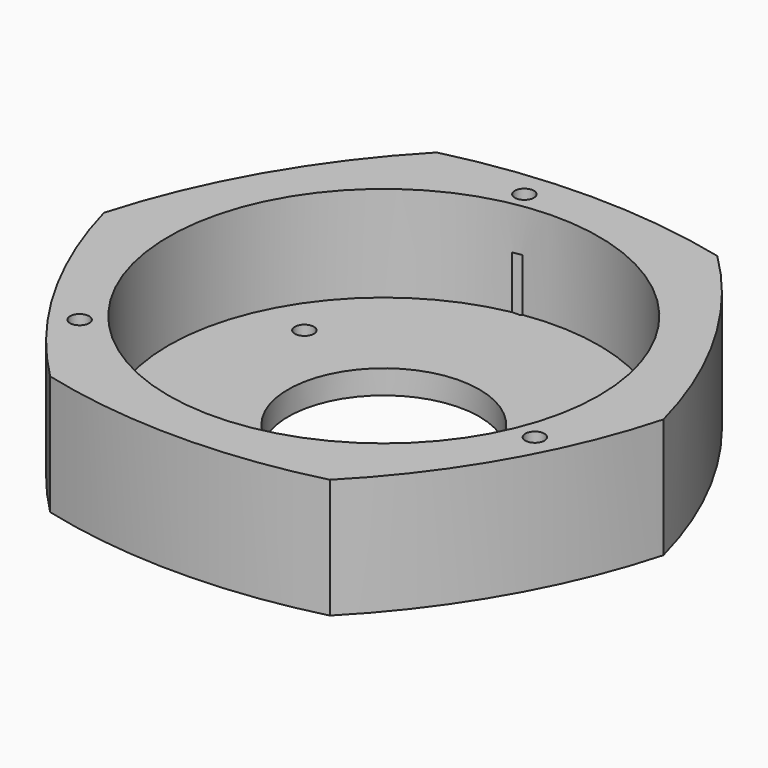
from build123d import *

# Parameters (mm, degrees)
CYLINDER006_R     = 2
CYLINDER006_DEPTH = 20
CYLINDER007_R     = 2
CYLINDER007_DEPTH = 20
CYLINDER005_R     = 2
CYLINDER005_DEPTH = 20
EXTRUDE003_DEPTH  = 16
EXTRUDE002_DEPTH  = 16
EXTRUDE001_DEPTH  = 16
CYLINDER004_R     = 2
CYLINDER004_DEPTH = 25
CYLINDER003_R     = 2
CYLINDER003_DEPTH = 25
CYLINDER002_R     = 2
CYLINDER002_DEPTH = 25
CYLINDER001_R     = 20
CYLINDER001_DEPTH = 5
CYLINDER_R        = 45
CYLINDER_DEPTH    = 20
EXTRUDE_DEPTH     = 25


with BuildPart() as cylinder006:
    # Cylinder006 → Cylinder006 (new body)
    with BuildSketch(Plane(origin=(-31, 18, 0), x_dir=(1, 0, 0), z_dir=(0, 0, 1))):
        Circle(CYLINDER006_R)
    extrude(amount=CYLINDER006_DEPTH)


with BuildPart() as cylinder007:
    # Cylinder007 → Cylinder007 (new body)
    with BuildSketch(Plane(origin=(0, -36, 0), x_dir=(1, 0, 0), z_dir=(0, 0, 1))):
        Circle(CYLINDER007_R)
    extrude(amount=CYLINDER007_DEPTH)


with BuildPart() as cylinder005:
    # Cylinder005 → Cylinder005 (new body)
    with BuildSketch(Plane(origin=(31, 18, 0), x_dir=(1, 0, 0), z_dir=(0, 0, 1))):
        Circle(CYLINDER005_R)
    extrude(amount=CYLINDER005_DEPTH)


with BuildPart() as extrude003:
    # RegularPolygon002 → Extrude003 (new body)
    with BuildSketch(Plane(origin=(46, -18, 0), x_dir=(0, 1, 0), z_dir=(0, 0, 1))):
        Polygon((0, -4.4), (3.810512, -2.2), (3.810512, 2.2), (0, 4.4), (-3.810512, 2.2), (-3.810512, -2.2), align=None)
    extrude(amount=EXTRUDE003_DEPTH)


with BuildPart() as extrude002:
    # RegularPolygon001 → Extrude002 (new body)
    with BuildSketch(Plane(origin=(-9, 48, 0), x_dir=(0, 1, 0), z_dir=(0, 0, 1))):
        Polygon((0, -4.4), (3.810512, -2.2), (3.810512, 2.2), (0, 4.4), (-3.810512, 2.2), (-3.810512, -2.2), align=None)
    extrude(amount=EXTRUDE002_DEPTH)


with BuildPart() as extrude001:
    # RegularPolygon → Extrude001 (new body)
    with BuildSketch(Plane(origin=(-38, -32, 0), x_dir=(0, 1, 0), z_dir=(0, 0, 1))):
        Polygon((0, -4.4), (3.810512, -2.2), (3.810512, 2.2), (0, 4.4), (-3.810512, 2.2), (-3.810512, -2.2), align=None)
    extrude(amount=EXTRUDE001_DEPTH)


with BuildPart() as cylinder004:
    # Cylinder004 → Cylinder004 (new body)
    with BuildSketch(Plane(origin=(46, -18, 0), x_dir=(1, 0, 0), z_dir=(0, 0, 1))):
        Circle(CYLINDER004_R)
    extrude(amount=CYLINDER004_DEPTH)


with BuildPart() as cylinder003:
    # Cylinder003 → Cylinder003 (new body)
    with BuildSketch(Plane(origin=(-9, 48, 0), x_dir=(1, 0, 0), z_dir=(0, 0, 1))):
        Circle(CYLINDER003_R)
    extrude(amount=CYLINDER003_DEPTH)


with BuildPart() as cylinder002:
    # Cylinder002 → Cylinder002 (new body)
    with BuildSketch(Plane(origin=(-38, -32, 0), x_dir=(1, 0, 0), z_dir=(0, 0, 1))):
        Circle(CYLINDER002_R)
    extrude(amount=CYLINDER002_DEPTH)


with BuildPart() as cylinder001:
    # Cylinder001 → Cylinder001 (new body)
    with BuildSketch(Plane.XY):
        Circle(CYLINDER001_R)
    extrude(amount=CYLINDER001_DEPTH)


with BuildPart() as cylinder:
    # Cylinder → Cylinder (new body)
    with BuildSketch(Plane.XY.offset(5)):
        Circle(CYLINDER_R)
    extrude(amount=CYLINDER_DEPTH)


with BuildPart() as cut010:
    # Sketch → Extrude (new body)
    with BuildSketch(Plane.XY):
        with BuildLine():
            ThreePointArc((-58.518876, 0), (-47.172244, -27.235666), (-29.233044, -50.660282))
            ThreePointArc((-29.233044, -50.660282), (0.013292, -54.368862), (29.263356, -50.689798))
            ThreePointArc((29.263356, -50.689798), (47.126286, -27.222202), (58.473712, 0))
            ThreePointArc((58.473712, 0), (47.267042, 27.297009), (29.223904, 50.645699))
            ThreePointArc((29.223904, 50.645699), (-0.099691, 54.190035), (-29.41792, 50.601573))
            ThreePointArc((-29.41792, 50.601573), (-47.081429, 27.09109), (-58.518876, 0))
        make_face()
    extrude(amount=EXTRUDE_DEPTH)

    # Cut: cut Cylinder
    add(cylinder.part, mode=Mode.SUBTRACT)

    # Cut001: cut Cylinder001
    add(cylinder001.part, mode=Mode.SUBTRACT)

    # Cut002: cut Cylinder002
    add(cylinder002.part, mode=Mode.SUBTRACT)

    # Cut003: cut Cylinder003
    add(cylinder003.part, mode=Mode.SUBTRACT)

    # Cut004: cut Cylinder004
    add(cylinder004.part, mode=Mode.SUBTRACT)

    # Cut005: cut Extrude001
    add(extrude001.part, mode=Mode.SUBTRACT)

    # Cut006: cut Extrude002
    add(extrude002.part, mode=Mode.SUBTRACT)

    # Cut007: cut Extrude003
    add(extrude003.part, mode=Mode.SUBTRACT)

    # Cut008: cut Cylinder005
    add(cylinder005.part, mode=Mode.SUBTRACT)

    # Cut009: cut Cylinder007
    add(cylinder007.part, mode=Mode.SUBTRACT)

    # Cut010: cut Cylinder006
    add(cylinder006.part, mode=Mode.SUBTRACT)


solid = cut010.part
